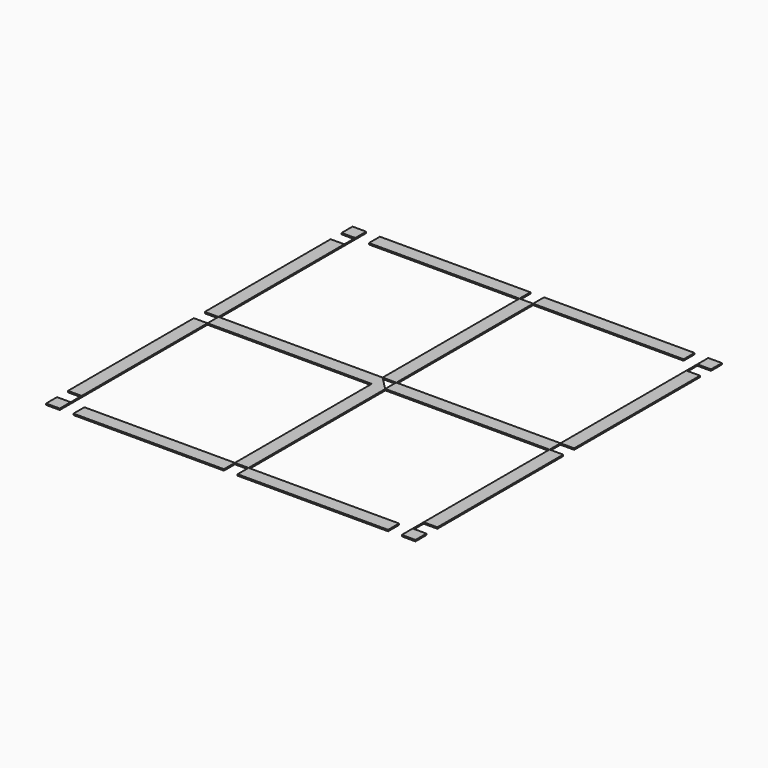
from build123d import *

# Parameters (mm, degrees)
F0_W      = 270
F0_H      = 280
F1_DEPTH  = 1
F2_W      = 120
F2_H      = 125
F3_DEPTH  = 1.001
F4_W      = 10
F4_H      = 10
F5_DEPTH  = 1.001
F6_W      = 10
F6_H      = 10
F7_DEPTH  = 1.001
F9_DEPTH  = 1.001
F10_W     = 10
F10_H     = 10
F11_DEPTH = 1.001
F12_W     = 10
F12_H     = 10
F13_DEPTH = 1.001


with BuildPart() as f1:
    # F0 (on Top) → F1 (new body)
    with BuildSketch(Plane.XY):
        Rectangle(F0_W, F0_H)
    extrude(amount=F1_DEPTH)

    # F2 (on face) → F3 (cut, through all)
    with BuildSketch(Plane.XY.offset(1)):
        with Locations((-65, 67.5)):
            Rectangle(F2_W, F2_H)
        with Locations((65, 67.5)):
            Rectangle(F2_W, F2_H)
        with Locations((65, -67.5)):
            Rectangle(F2_W, F2_H)
        with Locations((-65, -67.5)):
            Rectangle(F2_W, F2_H)
    extrude(amount=-F3_DEPTH, mode=Mode.SUBTRACT)

    # F4 (on face) → F5 (cut, through all)
    with BuildSketch(Plane.XY.offset(1)):
        with Locations((-130.011037, 125)):
            Rectangle(F4_W, F4_H)
        with Locations((130.011037, 125)):
            Rectangle(F4_W, F4_H)
        with Locations((-130.011037, -125)):
            Rectangle(F4_W, F4_H)
        with Locations((130.011037, -125)):
            Rectangle(F4_W, F4_H)
    extrude(amount=-F5_DEPTH, mode=Mode.SUBTRACT)

    # F6 (on face) → F7 (cut, through all)
    with BuildSketch(Plane.XY.offset(1)):
        with Locations((120, 135)):
            Rectangle(F6_W, F6_H)
        with Locations((-120, -135)):
            Rectangle(F6_W, F6_H)
        with Locations((120, -135)):
            Rectangle(F6_W, F6_H)
        with Locations((-120, 135)):
            Rectangle(F6_W, F6_H)
    extrude(amount=-F7_DEPTH, mode=Mode.SUBTRACT)

    # F8 (on face) → F9 (cut, through all)
    with BuildSketch(Plane.XY.offset(1)):
        Polygon((-5, 5), (-5.102537, 5), (4.897463, -5), (4.897463, 5), align=None)
        Polygon((-5, 5), (-5.102537, 5), (4.897463, -5), (4.897463, 5), align=None)
    extrude(amount=-F9_DEPTH, mode=Mode.SUBTRACT)

    # F10 (on face) → F11 (cut, through all)
    with BuildSketch(Plane.XY.offset(1)):
        with Locations((-130, 0)):
            Rectangle(F10_W, F10_H)
        with Locations((130, 0)):
            Rectangle(F10_W, F10_H)
    extrude(amount=-F11_DEPTH, mode=Mode.SUBTRACT)

    # F12 (on face) → F13 (cut, through all)
    with BuildSketch(Plane.XY.offset(1)):
        with Locations((0, -135)):
            Rectangle(F12_W, F12_H)
        with Locations((0, 135)):
            Rectangle(F12_W, F12_H)
    extrude(amount=-F13_DEPTH, mode=Mode.SUBTRACT)


solid = f1.part
